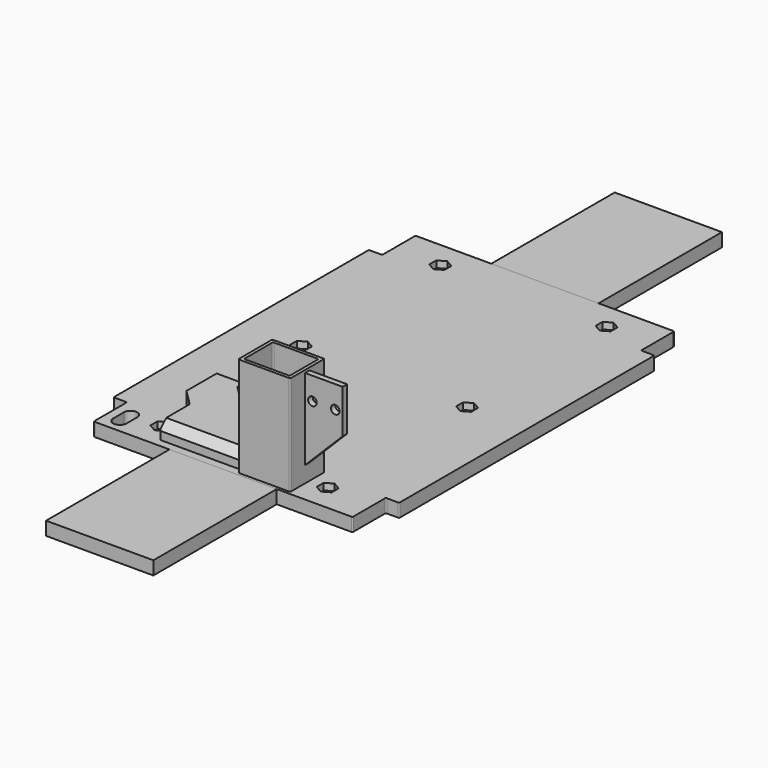
from build123d import *

# Parameters (mm, degrees)
SKETCH417_W     = 40
SKETCH417_H     = 57.5
PAD197_DEPTH    = 5
SKETCH418_W     = 40
SKETCH418_H     = 57.5
PAD198_DEPTH    = 5
PAD_DEPTH       = 5
SKETCH002_R     = 1.5
POCKET_DEPTH    = 2.5
SKETCH003_R     = 1.5
POCKET001_DEPTH = 5
SKETCH004_W     = 20.5
SKETCH004_H     = 13.5
POCKET002_DEPTH = 5
PAD001_DEPTH    = 13.5
SKETCH007_W     = 19.4
SKETCH007_H     = 15.9
SKETCH007_W_2   = 17
SKETCH007_H_2   = 13.5
PAD002_DEPTH    = 37.25
SKETCH008_W     = 2.1
SKETCH008_H     = 36.25
PAD003_DEPTH    = 14
POCKET003_DEPTH = 2.1
SKETCH010_R     = 1.6
POCKET004_DEPTH = 2.1
PAD193_DEPTH    = 6
POCKET198_DEPTH = 10
CHAMFER_SIZE    = 3
POCKET218_DEPTH = 5
FILLET_R        = 0.4


with BuildPart() as circuitry_mountingplate_front_extension:
    # Sketch417 → Pad197 (new body)
    with BuildSketch(Plane.XY):
        with Locations((0, 103.75)):
            Rectangle(SKETCH417_W, SKETCH417_H)
    extrude(amount=PAD197_DEPTH)


with BuildPart() as circuitry_mountingplate_rear_extension:
    # Sketch418 → Pad198 (new body)
    with BuildSketch(Plane.XY):
        with Locations((0, -103.75)):
            Rectangle(SKETCH418_W, SKETCH418_H)
    extrude(amount=PAD198_DEPTH)


with BuildPart() as circuitry_mountingplate_base:
    # Sketch → Pad (new body)
    with BuildSketch(Plane.XY):
        Polygon((-53.25, -59.5), (-53.25, 59.5), (-48.25, 59.5), (-48.25, 75), (48.25, 75), (48.25, 59.5), (53.25, 59.5), (53.25, -59.5), (48.25, -59.5), (48.25, -75), (-48.25, -75), (-48.25, -59.5), align=None)
    extrude(amount=PAD_DEPTH)

    # Sketch002 (on Face14 of Pad) → Pocket (cut)
    with BuildSketch(Plane.XY.offset(5)):
        Polygon((-31, -61.766838), (-33.8, -63.383419), (-33.8, -66.616581), (-31, -68.233162), (-28.2, -66.616581), (-28.2, -63.383419), align=None)
        with Locations((-31, -65)):
            Circle(SKETCH002_R, mode=Mode.SUBTRACT)
        Polygon((31, -61.766838), (28.2, -63.383419), (28.2, -66.616581), (31, -68.233162), (33.8, -66.616581), (33.8, -63.383419), align=None)
        with Locations((31, -65)):
            Circle(SKETCH002_R, mode=Mode.SUBTRACT)
        Polygon((31, 3.233162), (28.2, 1.616581), (28.2, -1.616581), (31, -3.233162), (33.8, -1.616581), (33.8, 1.616581), align=None)
        with Locations((31, 0)):
            Circle(SKETCH002_R, mode=Mode.SUBTRACT)
        Polygon((-31, 3.233162), (-33.8, 1.616581), (-33.8, -1.616581), (-31, -3.233162), (-28.2, -1.616581), (-28.2, 1.616581), align=None)
        with Locations((-31, 0)):
            Circle(SKETCH002_R, mode=Mode.SUBTRACT)
        Polygon((-31, 68.233162), (-33.8, 66.616581), (-33.8, 63.383419), (-31, 61.766838), (-28.2, 63.383419), (-28.2, 66.616581), align=None)
        with Locations((-31, 65)):
            Circle(SKETCH002_R, mode=Mode.SUBTRACT)
        Polygon((31, 68.233162), (28.2, 66.616581), (28.2, 63.383419), (31, 61.766838), (33.8, 63.383419), (33.8, 66.616581), align=None)
        with Locations((31, 65)):
            Circle(SKETCH002_R, mode=Mode.SUBTRACT)
    extrude(amount=-POCKET_DEPTH, mode=Mode.SUBTRACT)

    # Sketch003 (on Face63 of Pocket) → Pocket001 (cut)
    with BuildSketch(Plane.XY.offset(5)):
        with Locations((-31, 65)):
            Circle(SKETCH003_R)
        with Locations((31, 65)):
            Circle(SKETCH003_R)
        with Locations((31, 0)):
            Circle(SKETCH003_R)
        with Locations((-31, 0)):
            Circle(SKETCH003_R)
        with Locations((-31, -65)):
            Circle(SKETCH003_R)
        with Locations((31, -65)):
            Circle(SKETCH003_R)
    extrude(amount=-POCKET001_DEPTH, mode=Mode.SUBTRACT)

    # Sketch004 (on Face5 of Pocket001) → Pocket002 (cut)
    with BuildSketch(Plane.XY.offset(5)):
        with Locations((16.25, -66)):
            Rectangle(SKETCH004_W, SKETCH004_H)
    extrude(amount=-POCKET002_DEPTH, mode=Mode.SUBTRACT)

    # Sketch006 (on Face20 of Pocket002) → Pad001 (join)
    with BuildSketch(Plane.XZ.offset(59.25)):
        Polygon((26.5, 0.75), (23, 4.25), (23, 5), (26.5, 5), align=None)
    extrude(amount=PAD001_DEPTH)

    # Sketch007 (on Face5 of Pad001) → Pad002 (join)
    with BuildSketch(Plane.XY.offset(5)):
        with Locations((14.5, -66)):
            Rectangle(SKETCH007_W, SKETCH007_H)
        with Locations((14.5, -66)):
            Rectangle(SKETCH007_W_2, SKETCH007_H_2, mode=Mode.SUBTRACT)
    extrude(amount=PAD002_DEPTH)

    # Sketch008 (on Face38 of Pad002) → Pad003 (join)
    with BuildSketch(Plane.YZ.offset(24.2)):
        with Locations((-66, 23.125)):
            Rectangle(SKETCH008_W, SKETCH008_H)
    extrude(amount=PAD003_DEPTH)

    # Sketch009 (on Face52 of Pad003) → Pocket003 (cut)
    with BuildSketch(Plane.XZ.offset(67.05)):
        Polygon((24.2, 5), (24.2, 11), (38.2, 25), (38.2, 5), align=None)
    extrude(amount=-POCKET003_DEPTH, mode=Mode.SUBTRACT)

    # Sketch010 (on Face83 of Pocket003) → Pocket004 (cut)
    with BuildSketch(Plane.XZ.offset(67.05)):
        with Locations((26.95, 32.85)):
            Circle(SKETCH010_R)
        with Locations((35.45, 32.85)):
            Circle(SKETCH010_R)
    extrude(amount=-POCKET004_DEPTH, mode=Mode.SUBTRACT)

    # Sketch410 (on Face5 of Pocket004) → Pad193 (join)
    with BuildSketch(Plane.XY.offset(5)):
        Polygon((4.8, -72), (-26, -72), (-26, -58.05), (-32, -52.05), (-32, -35), (-22, -35), (-22, -40.85), (-4.8, -58.05), (4.8, -58.05), align=None)
    extrude(amount=PAD193_DEPTH)

    # Sketch414 (on Face4 of Pad193) → Pocket198 (cut)
    with BuildSketch(Plane(origin=(0, 0, 0), x_dir=(1, 0, 0), z_dir=(0, 0, -1))):
        Polygon((6, 70), (-24, 70), (-24, 58.05), (-30.8, 51.25), (-30.8, 36.2), (-23.2, 36.2), (-23.2, 40.85), (-4.8, 59.25), (6, 59.25), align=None)
    extrude(amount=-POCKET198_DEPTH, mode=Mode.SUBTRACT)

    # Chamfer
    chamfer_edges = [circuitry_mountingplate_base.edges().sort_by_distance(p)[0] for p in [
        (-10.6, -72, 11),
        (0, -58.05, 11),
        (-27, -35, 11),
        (-27, -36.2, 10),
        (0.6, -59.25, 10),
        (-9, -70, 10),
    ]]
    chamfer(chamfer_edges, length=CHAMFER_SIZE)

    # Sketch449 → Pocket218 (cut)
    with BuildSketch(Plane.XY.offset(5)):
        with BuildLine():
            ThreePointArc((-45, -70), (-42.5, -72.5), (-40, -70))
            Line((-40, -70), (-40, -65))
            ThreePointArc((-40, -65), (-42.5, -62.5), (-45, -65))
            Line((-45, -70), (-45, -65))
        make_face()
    extrude(amount=-POCKET218_DEPTH, mode=Mode.SUBTRACT)

    # Fillet
    fillet_edges = [circuitry_mountingplate_base.edges().sort_by_distance(p)[0] for p in [
        (48.25, -75, 2.5),
        (48.25, -59.5, 2.5),
        (53.25, -59.5, 2.5),
        (53.25, 59.5, 2.5),
        (48.25, 59.5, 2.5),
        (48.25, 75, 2.5),
        (-48.25, 75, 2.5),
        (-48.25, 59.5, 2.5),
        (-53.25, 59.5, 2.5),
        (-53.25, -59.5, 2.5),
        (-48.25, -59.5, 2.5),
        (-48.25, -75, 2.5),
        (-30.8, -36.2, 3.5),
        (-24, -58.05, 5),
        (-30.8, -51.25, 5),
        (-24, -70, 3.5),
        (6, -70, 2.5),
        (6, -72.75, 2.5),
        (26.5, -72.75, 0.375),
        (26.5, -59.25, 0.375),
        (-4.8, -59.25, 3.5),
        (-23.2, -40.85, 5),
        (-23.2, -36.2, 3.5),
        (23, -59.25, 23.625),
        (23, -72.75, 23.625),
        (6, -72.75, 23.625),
        (6, -59.25, 8.5),
        (24.2, -73.95, 23.625),
        (24.2, -58.05, 23.625),
        (4.8, -58.05, 26.625),
        (4.8, -73.95, 23.625),
        (-26, -72, 6.5),
        (-26, -58.05, 8),
        (-32, -52.05, 8),
        (-32, -35, 6.5),
        (-22, -35, 6.5),
        (-22, -40.85, 8),
        (-4.8, -58.05, 6.5),
    ]]
    fillet(fillet_edges, radius=FILLET_R)


solid = Compound([circuitry_mountingplate_front_extension.part, circuitry_mountingplate_rear_extension.part, circuitry_mountingplate_base.part])
